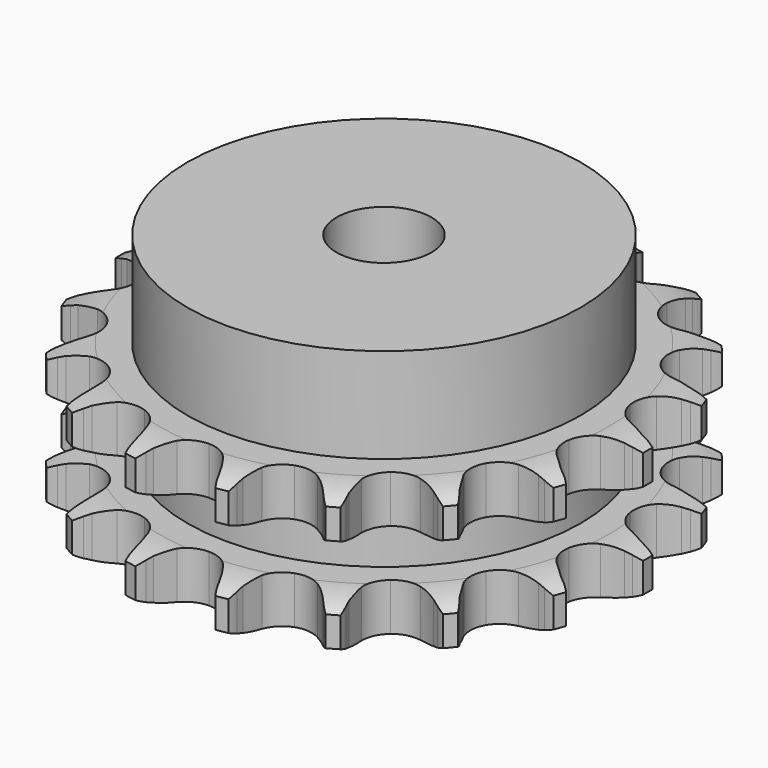
from build123d import *

# Parameters (mm, degrees)
PAD_DEPTH         = 21
SKETCH001_R       = 29
PAD001_DEPTH      = 35
SKETCH002_R       = 7
POCKET_DEPTH      = 0.001
POCKET_DEPTH_BACK = 35.001


with BuildPart() as part:
    # Sprocket → Pad (new body)
    with BuildSketch(Plane.XY):
        with BuildLine():
            ThreePointArc((-7.003796, 39.720502), (-6.007744, 38.60389), (-5.269995, 37.302094))
            Line((-5.269995, 37.302094), (-4.86388, 36.365611))
            ThreePointArc((-4.86388, 36.365611), (-4.204525, 35.080808), (-3.384263, 33.892264))
            ThreePointArc((-3.384263, 33.892264), (-1.88001, 32.684973), (0, 32.253818))
            ThreePointArc((0, 32.253818), (1.88001, 32.684973), (3.384263, 33.892264))
            ThreePointArc((3.384263, 33.892264), (4.204525, 35.080808), (4.86388, 36.365611))
            Line((4.86388, 36.365611), (5.269995, 37.302094))
            ThreePointArc((5.269995, 37.302094), (6.007744, 38.60389), (7.003796, 39.720502))
            ThreePointArc((7.003796, 39.720502), (7.557875, 38.33056), (7.805892, 36.854947))
            Line((7.805892, 36.854947), (7.86722, 35.836041))
            ThreePointArc((7.86722, 35.836041), (8.047382, 34.403209), (8.41167, 33.005797))
            ThreePointArc((8.41167, 33.005797), (9.412288, 31.356829), (11.031455, 30.308674))
            ThreePointArc((11.031455, 30.308674), (12.94555, 30.070827), (14.772004, 30.690824))
            Line((14.772004, 30.690824), (17.008323, 32.508952))
            ThreePointArc((17.008323, 32.508952), (17.350777, 32.887562), (17.710243, 33.250058))
            ThreePointArc((17.710243, 33.250058), (18.84874, 34.221021), (20.166628, 34.929624))
            ThreePointArc((20.166628, 34.929624), (20.211903, 33.433998), (19.940274, 31.962549))
            Line((19.940274, 31.962549), (19.649416, 30.984116))
            ThreePointArc((19.649416, 30.984116), (19.328656, 29.576075), (19.193031, 28.138343))
            ThreePointArc((19.193031, 28.138343), (19.569325, 26.246589), (20.732354, 24.707858))
            ThreePointArc((20.732354, 24.707858), (22.449667, 23.829695), (24.378024, 23.787618))
            Line((24.378024, 23.787618), (27.101312, 24.731233))
            ThreePointArc((27.101312, 24.731233), (27.552606, 24.969884), (28.014374, 25.187575))
            ThreePointArc((28.014374, 25.187575), (29.416301, 25.710592), (30.897066, 25.925717))
            ThreePointArc((30.897066, 25.925717), (30.428077, 24.504804), (29.669564, 23.214997))
            Line((29.669564, 23.214997), (29.061603, 22.395049))
            ThreePointArc((29.061603, 22.395049), (28.278609, 21.18163), (27.65943, 19.87699))
            ThreePointArc((27.65943, 19.87699), (27.366012, 17.970623), (27.932625, 16.126909))
            ThreePointArc((27.932625, 16.126909), (29.246022, 14.71435), (31.043693, 14.015274))
            Line((31.043693, 14.015274), (33.925483, 13.970562))
            ThreePointArc((33.925483, 13.970562), (34.431183, 14.040469), (34.939559, 14.087098))
            ThreePointArc((34.939559, 14.087098), (36.435821, 14.099086), (37.900862, 13.794786))
            ThreePointArc((37.900862, 13.794786), (36.974176, 12.619968), (35.820267, 11.667372))
            Line((35.820267, 11.667372), (34.968532, 11.104809))
            ThreePointArc((34.968532, 11.104809), (33.817744, 10.232368), (32.789693, 9.218179))
            ThreePointArc((32.789693, 9.218179), (31.861954, 7.527134), (31.76381, 5.600817))
            ThreePointArc((31.76381, 5.600817), (32.514875, 3.824238), (33.965036, 2.552481))
            Line((33.965036, 2.552481), (36.65774, 1.524836))
            ThreePointArc((36.65774, 1.524836), (37.156852, 1.417567), (37.650517, 1.287509))
            ThreePointArc((37.650517, 1.287509), (39.060644, 0.787023), (40.333255, 0))
            ThreePointArc((40.333255, 0), (39.060644, -0.787023), (37.650517, -1.287509))
            Line((37.650517, -1.287509), (36.65774, -1.524836))
            ThreePointArc((36.65774, -1.524836), (35.27796, -1.951069), (33.965036, -2.552481))
            ThreePointArc((33.965036, -2.552481), (32.514875, -3.824238), (31.76381, -5.600817))
            ThreePointArc((31.76381, -5.600817), (31.861954, -7.527134), (32.789693, -9.218179))
            Line((32.789693, -9.218179), (34.968532, -11.104809))
            ThreePointArc((34.968532, -11.104809), (35.400856, -11.376314), (35.820267, -11.667372))
            ThreePointArc((35.820267, -11.667372), (36.974176, -12.619968), (37.900862, -13.794786))
            ThreePointArc((37.900862, -13.794786), (36.435821, -14.099086), (34.939559, -14.087098))
            Line((34.939559, -14.087098), (33.925483, -13.970562))
            ThreePointArc((33.925483, -13.970562), (32.483134, -13.899178), (31.043693, -14.015274))
            ThreePointArc((31.043693, -14.015274), (29.246022, -14.71435), (27.932625, -16.126909))
            ThreePointArc((27.932625, -16.126909), (27.366012, -17.970623), (27.65943, -19.87699))
            Line((27.65943, -19.87699), (29.061603, -22.395049))
            ThreePointArc((29.061603, -22.395049), (29.374995, -22.798045), (29.669564, -23.214997))
            ThreePointArc((29.669564, -23.214997), (30.428077, -24.504804), (30.897066, -25.925717))
            ThreePointArc((30.897066, -25.925717), (29.416301, -25.710592), (28.014374, -25.187575))
            Line((28.014374, -25.187575), (27.101312, -24.731233))
            ThreePointArc((27.101312, -24.731233), (25.770362, -24.170841), (24.378024, -23.787618))
            ThreePointArc((24.378024, -23.787618), (22.449667, -23.829695), (20.732354, -24.707858))
            ThreePointArc((20.732354, -24.707858), (19.569325, -26.246589), (19.193031, -28.138343))
            Line((19.193031, -28.138343), (19.649416, -30.984116))
            ThreePointArc((19.649416, -30.984116), (19.806075, -31.469994), (19.940274, -31.962549))
            ThreePointArc((19.940274, -31.962549), (20.211903, -33.433998), (20.166628, -34.929624))
            ThreePointArc((20.166628, -34.929624), (18.84874, -34.221021), (17.710243, -33.250058))
            Line((17.710243, -33.250058), (17.008323, -32.508952))
            ThreePointArc((17.008323, -32.508952), (15.949304, -31.527144), (14.772004, -30.690824))
            ThreePointArc((14.772004, -30.690824), (12.94555, -30.070827), (11.031455, -30.308674))
            ThreePointArc((11.031455, -30.308674), (9.412288, -31.356829), (8.41167, -33.005797))
            Line((8.41167, -33.005797), (7.86722, -35.836041))
            ThreePointArc((7.86722, -35.836041), (7.848251, -36.346198), (7.805892, -36.854947))
            ThreePointArc((7.805892, -36.854947), (7.557875, -38.33056), (7.003796, -39.720502))
            ThreePointArc((7.003796, -39.720502), (6.007744, -38.60389), (5.269995, -37.302094))
            Line((5.269995, -37.302094), (4.86388, -36.365611))
            ThreePointArc((4.86388, -36.365611), (4.204525, -35.080808), (3.384263, -33.892264))
            ThreePointArc((3.384263, -33.892264), (1.88001, -32.684973), (0, -32.253818))
            ThreePointArc((0, -32.253818), (-1.88001, -32.684973), (-3.384263, -33.892264))
            Line((-3.384263, -33.892264), (-4.86388, -36.365611))
            ThreePointArc((-4.86388, -36.365611), (-5.056188, -36.838514), (-5.269995, -37.302094))
            ThreePointArc((-5.269995, -37.302094), (-6.007744, -38.60389), (-7.003796, -39.720502))
            ThreePointArc((-7.003796, -39.720502), (-7.557875, -38.33056), (-7.805892, -36.854947))
            Line((-7.805892, -36.854947), (-7.86722, -35.836041))
            ThreePointArc((-7.86722, -35.836041), (-8.047382, -34.403209), (-8.41167, -33.005797))
            ThreePointArc((-8.41167, -33.005797), (-9.412288, -31.356829), (-11.031455, -30.308674))
            ThreePointArc((-11.031455, -30.308674), (-12.94555, -30.070827), (-14.772004, -30.690824))
            Line((-14.772004, -30.690824), (-17.008323, -32.508952))
            ThreePointArc((-17.008323, -32.508952), (-17.350777, -32.887562), (-17.710243, -33.250058))
            ThreePointArc((-17.710243, -33.250058), (-18.84874, -34.221021), (-20.166628, -34.929624))
            ThreePointArc((-20.166628, -34.929624), (-20.211903, -33.433998), (-19.940274, -31.962549))
            Line((-19.940274, -31.962549), (-19.649416, -30.984116))
            ThreePointArc((-19.649416, -30.984116), (-19.328656, -29.576075), (-19.193031, -28.138343))
            ThreePointArc((-19.193031, -28.138343), (-19.569325, -26.246589), (-20.732354, -24.707858))
            ThreePointArc((-20.732354, -24.707858), (-22.449667, -23.829695), (-24.378024, -23.787618))
            Line((-24.378024, -23.787618), (-27.101312, -24.731233))
            ThreePointArc((-27.101312, -24.731233), (-27.552606, -24.969884), (-28.014374, -25.187575))
            ThreePointArc((-28.014374, -25.187575), (-29.416301, -25.710592), (-30.897066, -25.925717))
            ThreePointArc((-30.897066, -25.925717), (-30.428077, -24.504804), (-29.669564, -23.214997))
            Line((-29.669564, -23.214997), (-29.061603, -22.395049))
            ThreePointArc((-29.061603, -22.395049), (-28.278609, -21.18163), (-27.65943, -19.87699))
            ThreePointArc((-27.65943, -19.87699), (-27.366012, -17.970623), (-27.932625, -16.126909))
            ThreePointArc((-27.932625, -16.126909), (-29.246022, -14.71435), (-31.043693, -14.015274))
            Line((-31.043693, -14.015274), (-33.925483, -13.970562))
            ThreePointArc((-33.925483, -13.970562), (-34.431183, -14.040469), (-34.939559, -14.087098))
            ThreePointArc((-34.939559, -14.087098), (-36.435821, -14.099086), (-37.900862, -13.794786))
            ThreePointArc((-37.900862, -13.794786), (-36.974176, -12.619968), (-35.820267, -11.667372))
            Line((-35.820267, -11.667372), (-34.968532, -11.104809))
            ThreePointArc((-34.968532, -11.104809), (-33.817744, -10.232368), (-32.789693, -9.218179))
            ThreePointArc((-32.789693, -9.218179), (-31.861954, -7.527134), (-31.76381, -5.600817))
            ThreePointArc((-31.76381, -5.600817), (-32.514875, -3.824238), (-33.965036, -2.552481))
            Line((-33.965036, -2.552481), (-36.65774, -1.524836))
            ThreePointArc((-36.65774, -1.524836), (-37.156852, -1.417567), (-37.650517, -1.287509))
            ThreePointArc((-37.650517, -1.287509), (-39.060644, -0.787023), (-40.333255, 0))
            ThreePointArc((-40.333255, 0), (-39.060644, 0.787023), (-37.650517, 1.287509))
            Line((-37.650517, 1.287509), (-36.65774, 1.524836))
            ThreePointArc((-36.65774, 1.524836), (-35.27796, 1.951069), (-33.965036, 2.552481))
            ThreePointArc((-33.965036, 2.552481), (-32.514875, 3.824238), (-31.76381, 5.600817))
            ThreePointArc((-31.76381, 5.600817), (-31.861954, 7.527134), (-32.789693, 9.218179))
            Line((-32.789693, 9.218179), (-34.968532, 11.104809))
            ThreePointArc((-34.968532, 11.104809), (-35.400856, 11.376314), (-35.820267, 11.667372))
            ThreePointArc((-35.820267, 11.667372), (-36.974176, 12.619968), (-37.900862, 13.794786))
            ThreePointArc((-37.900862, 13.794786), (-36.435821, 14.099086), (-34.939559, 14.087098))
            Line((-34.939559, 14.087098), (-33.925483, 13.970562))
            ThreePointArc((-33.925483, 13.970562), (-32.483134, 13.899178), (-31.043693, 14.015274))
            ThreePointArc((-31.043693, 14.015274), (-29.246022, 14.71435), (-27.932625, 16.126909))
            ThreePointArc((-27.932625, 16.126909), (-27.366012, 17.970623), (-27.65943, 19.87699))
            Line((-27.65943, 19.87699), (-29.061603, 22.395049))
            ThreePointArc((-29.061603, 22.395049), (-29.374995, 22.798045), (-29.669564, 23.214997))
            ThreePointArc((-29.669564, 23.214997), (-30.428077, 24.504804), (-30.897066, 25.925717))
            ThreePointArc((-30.897066, 25.925717), (-29.416301, 25.710592), (-28.014374, 25.187575))
            Line((-28.014374, 25.187575), (-27.101312, 24.731233))
            ThreePointArc((-27.101312, 24.731233), (-25.770362, 24.170841), (-24.378024, 23.787618))
            ThreePointArc((-24.378024, 23.787618), (-22.449667, 23.829695), (-20.732354, 24.707858))
            ThreePointArc((-20.732354, 24.707858), (-19.569325, 26.246589), (-19.193031, 28.138343))
            Line((-19.193031, 28.138343), (-19.649416, 30.984116))
            ThreePointArc((-19.649416, 30.984116), (-19.806075, 31.469994), (-19.940274, 31.962549))
            ThreePointArc((-19.940274, 31.962549), (-20.211903, 33.433998), (-20.166628, 34.929624))
            ThreePointArc((-20.166628, 34.929624), (-18.84874, 34.221021), (-17.710243, 33.250058))
            Line((-17.710243, 33.250058), (-17.008323, 32.508952))
            ThreePointArc((-17.008323, 32.508952), (-15.949304, 31.527144), (-14.772004, 30.690824))
            ThreePointArc((-14.772004, 30.690824), (-12.94555, 30.070827), (-11.031455, 30.308674))
            ThreePointArc((-11.031455, 30.308674), (-9.412288, 31.356829), (-8.41167, 33.005797))
            Line((-8.41167, 33.005797), (-7.86722, 35.836041))
            ThreePointArc((-7.86722, 35.836041), (-7.848251, 36.346198), (-7.805892, 36.854947))
            ThreePointArc((-7.805892, 36.854947), (-7.557875, 38.33056), (-7.003796, 39.720502))
        make_face()
    extrude(amount=PAD_DEPTH)

    # Sketch → Groove (revolve, cut)
    with BuildSketch(Plane.XZ):
        with BuildLine():
            ThreePointArc((33.233431, 0), (36.14032, 0.329167), (38.9, 1.3))
            Line((38.9, 1.3), (38.9, 5.7))
            ThreePointArc((38.9, 5.7), (36.14032, 6.670833), (33.233431, 7))
            Line((29, 7), (33.233431, 7))
            Line((29, 14), (29, 7))
            Line((33.233431, 14), (29, 14))
            ThreePointArc((33.233431, 14), (36.14032, 14.329167), (38.9, 15.3))
            Line((38.9, 15.3), (38.9, 19.7))
            ThreePointArc((38.9, 19.7), (36.14032, 20.670833), (33.233431, 21))
            Line((33.233431, 21), (43.233431, 21))
            Line((43.233431, 21), (43.233431, 0))
            Line((33.233431, 0), (43.233431, 0))
        make_face()
    revolve(axis=Axis((0, 0, 0), (0, 0, 1)), mode=Mode.SUBTRACT)

    # Sketch001 → Pad001 (join)
    with BuildSketch(Plane.XY):
        Circle(SKETCH001_R)
    extrude(amount=PAD001_DEPTH)

    # Sketch002 → Pocket (cut, two sides)
    with BuildSketch(Plane.XY) as pocket_sk:
        Circle(SKETCH002_R)
    extrude(amount=-POCKET_DEPTH, mode=Mode.SUBTRACT)
    extrude(pocket_sk.sketch, amount=POCKET_DEPTH_BACK, mode=Mode.SUBTRACT)


solid = part.part
